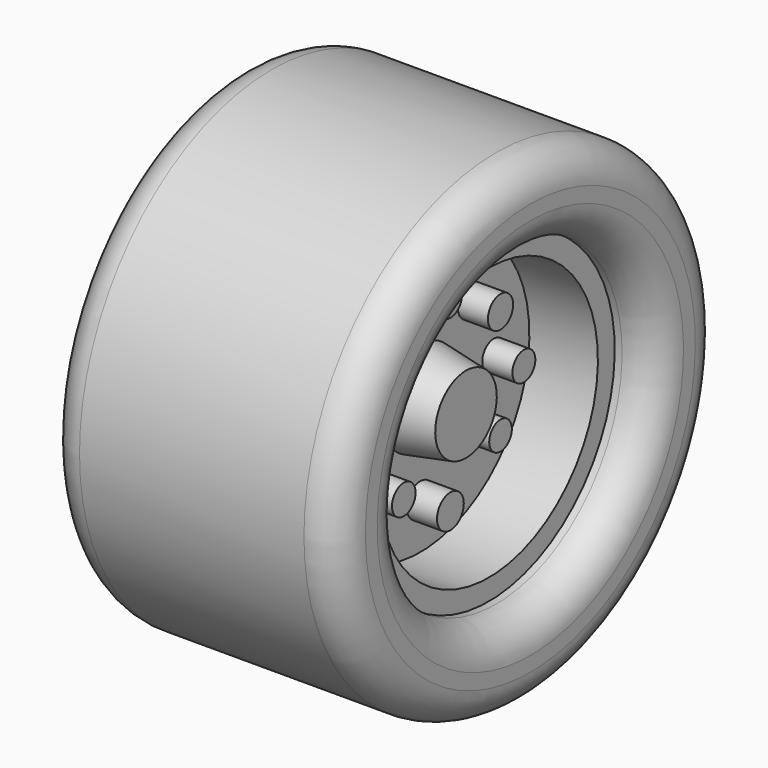
from build123d import *

# Parameters (mm, degrees)
F0_W     = 32.694452
F0_H     = 43.497836
F2_W     = 142.000835
F2_H     = 40.262722
F4_R     = 16.556677
F5_R     = 8.051739
F5_R_2   = 7.041861
F5_R_3   = 6.961843
F5_R_4   = 8.112258
F5_R_5   = 6.58773
F5_R_6   = 7.63797
F5_R_7   = 6.857593
F5_R_8   = 7.157102
F6_DEPTH = 31.75


with BuildPart() as f1:
    # F0 (on Front) → F1 (revolve)
    with BuildSketch(Plane.XZ):
        Polygon((50.410282, 76.669276), (-47.388766, 76.669276), (-47.388766, 66.150188), (-15.547215, 66.150188), (17.147237, 66.150188), (50.410282, 66.150188), align=None)
        with Locations((0.800011, 44.40127)):
            Rectangle(F0_W, F0_H)
        Polygon((17.147237, 22.652352), (-15.547215, 22.652352), (-38.859781, 18.672157), (-38.859781, 0), (39.3226, 0), (39.3226, 18.672157), align=None)
    revolve(axis=Axis((0.231409, 0, 0), (1, 0, 0)))

    # F5 (on Right) → F6 (join, symmetric)
    with BuildSketch(Plane.YZ):
        with Locations((-43.476898, 0)):
            Circle(F5_R)
        with Locations((0, 45.744095)):
            Circle(F5_R_2)
        with Locations((44.543818, 0)):
            Circle(F5_R_3)
        with Locations((0, -43.876991)):
            Circle(F5_R_4)
        with Locations((-28.27332, 28.940143)):
            Circle(F5_R_5)
        with Locations((30.407153, 28.940143)):
            Circle(F5_R_6)
        with Locations((30.407153, -23.872284)):
            Circle(F5_R_7)
        with Locations((-28.27332, -27.339766)):
            Circle(F5_R_8)
    extrude(amount=F6_DEPTH, both=True)


with BuildPart() as f3:
    # F2 (on Front) → F3 (revolve)
    with BuildSketch(Plane.XZ):
        with Locations((-0.460739, 96.467506)):
            Rectangle(F2_W, F2_H)
    revolve(axis=Axis((5.63699, 0, 0), (1, 0, 0)))

    # F4
    f4_edges = [f3.edges().sort_by_distance(p)[0] for p in [
        (-71.461156, 0, -116.598867),
        (-71.461156, 0, -76.336145),
        (70.539679, 0, -116.598867),
        (70.539679, 0, -76.336145),
    ]]
    fillet(f4_edges, radius=F4_R)


solid = Compound([f1.part, f3.part])
